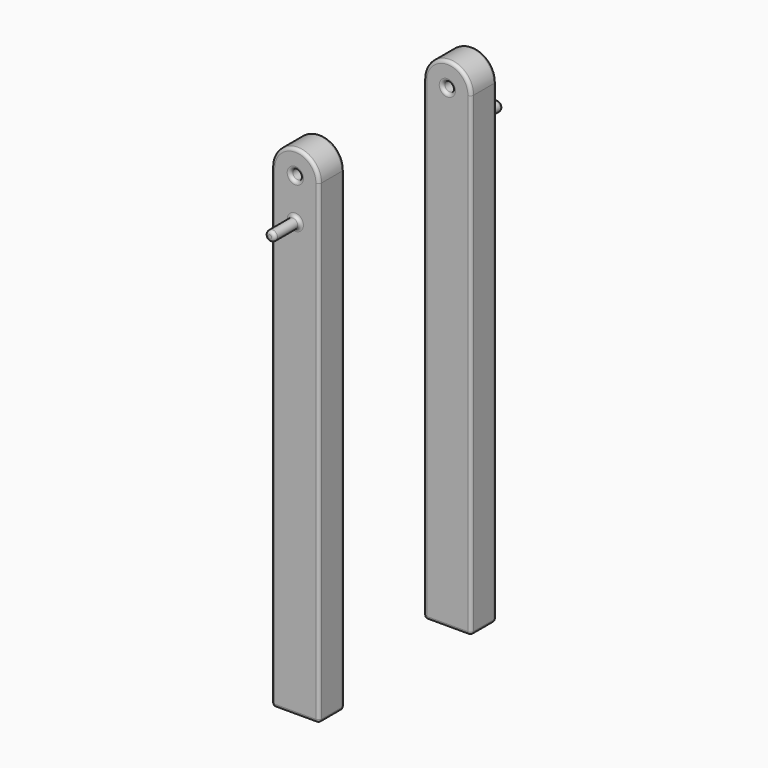
from build123d import *

# Parameters (mm, degrees)
F0_R     = 3.96875
F1_DEPTH = 50.8
F2_DEPTH = 25.4
F3_R     = 2.54


with BuildPart() as f1:
    # F0 (on Front) → F1 (new body)
    with BuildSketch(Plane.XZ):
        with Locations((19.05, 348.1435775757)):
            Circle(F0_R)
    extrude(amount=F1_DEPTH)

    # F0 (on Front) → F2 (join)
    with BuildSketch(Plane.XZ):
        with BuildLine():
            Line((0, 381), (0, 0))
            Line((0, 0), (38.1, 0))
            Line((38.1, 0), (38.1, 381))
            ThreePointArc((38.1, 381), (19.05, 400.05), (0, 381))
        make_face()
        with Locations((19.05, 348.1435775757)):
            Circle(F0_R, mode=Mode.SUBTRACT)
        with Locations((19.05, 381)):
            Circle(F0_R, mode=Mode.SUBTRACT)
    extrude(amount=F2_DEPTH)

    # F3
    f3_edges = [f1.edges().sort_by_distance(p)[0] for p in [
        (15.08125, -25.4, 348.143578),
        (23.01875, -38.1, 348.143578),
        (15.08125, -50.8, 348.143578),
        (19.05, -25.4, 400.05),
        (0, -25.4, 190.5),
        (19.05, -25.4, 0),
        (38.1, -25.4, 190.5),
        (15.08125, -25.4, 381),
        (38.1, -12.7, 381),
        (0, -12.7, 381),
        (19.05, 0, 400.05),
        (0, -12.7, 0),
        (0, 0, 190.5),
        (23.01875, -12.7, 381),
        (15.08125, 0, 381),
        (38.1, -12.7, 0),
        (38.1, 0, 190.5),
        (19.05, 0, 0),
    ]]
    fillet(f3_edges, radius=F3_R)


with BuildPart() as f4_1:
    # F4: copy of F1
    add(f1.part.moved(Location((0, 127, 0))))


with BuildPart() as f5_1:
    # F5: instance of F4_1
    add(f4_1.part.mirror(Plane(origin=(19.05, 127, 196.36963968), x_dir=(-1, 0, 0), z_dir=(0, 1, 0))))


solid = Compound([f1.part, f5_1.part])
